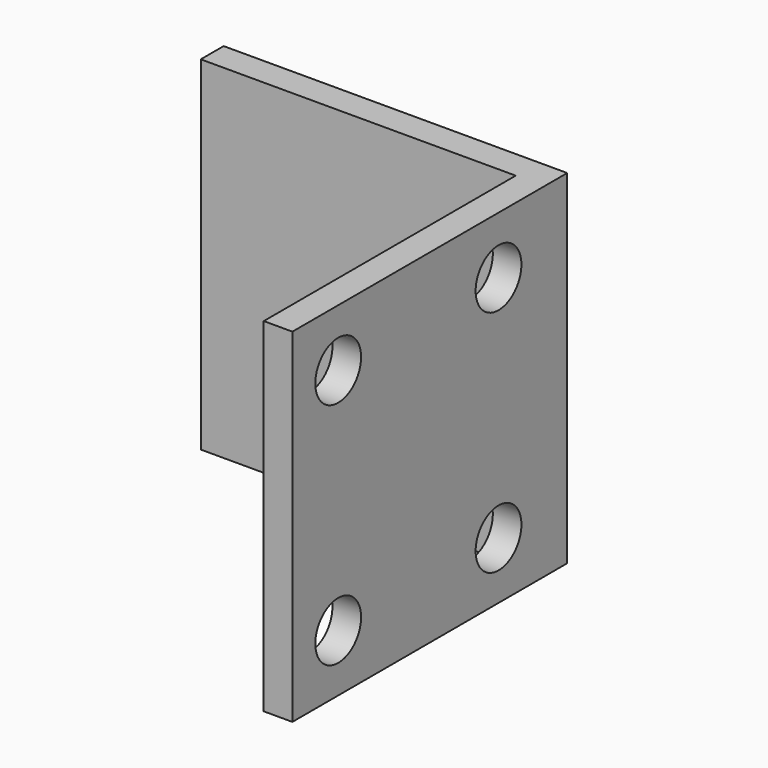
from build123d import *

# Parameters (mm, degrees)
PAD_DEPTH    = 60
SKETCH001_R  = 5
POCKET_DEPTH = 5


with BuildPart() as part:
    # Sketch → Pad (new body)
    with BuildSketch(Plane.XY):
        Polygon((0, 0), (0, 60), (-60, 60), (-60, 55), (-5, 55), (-5, 0), align=None)
    extrude(amount=PAD_DEPTH)

    # Sketch001 (on Face5 of Pad) → Pocket (cut)
    with BuildSketch(Plane(origin=(-5, 0, 0), x_dir=(0, -1, 0), z_dir=(-1, 0, 0))):
        with Locations((-45, 50)):
            Circle(SKETCH001_R)
        with Locations((-10, 50)):
            Circle(SKETCH001_R)
        with Locations((-10, 10)):
            Circle(SKETCH001_R)
        with Locations((-45, 10)):
            Circle(SKETCH001_R)
    extrude(amount=-POCKET_DEPTH, mode=Mode.SUBTRACT)


solid = part.part
